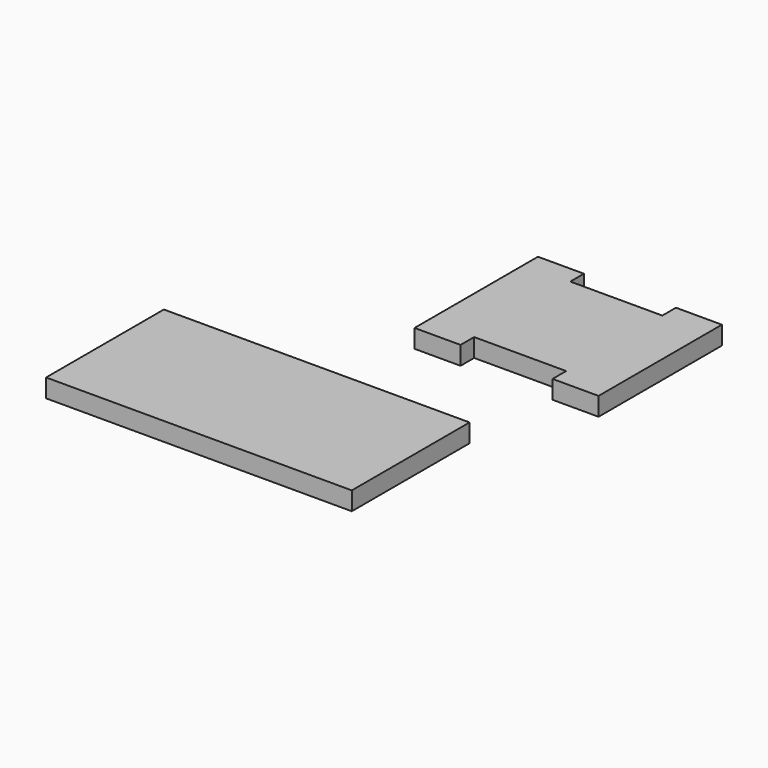
from build123d import *

# Parameters (mm, degrees)
F2_DEPTH = 5.08
F3_DEPTH = 5.08


with BuildPart() as f2:
    # F1 (on Top) → F2 (new body)
    with BuildSketch(Plane.XY):
        Polygon((28.832783, 69.620014), (16.132783, 69.620014), (16.132783, 27.043017), (28.832783, 27.043017), (28.832783, 31.740172), (41.532783, 31.740172), (54.232783, 31.740172), (54.232783, 27.043017), (66.932783, 27.043017), (66.932783, 69.620014), (54.232783, 69.620014), (54.232783, 64.922858), (41.532783, 64.922858), (28.832783, 64.922858), align=None)
    extrude(amount=F2_DEPTH)


with BuildPart() as f3:
    # F0 (on Top) → F3 (new body)
    with BuildSketch(Plane.XY):
        Polygon((52.952456, -40.64), (52.952456, 0), (14.266956, 0), (-31.44131, 0), (-31.453044, -40.64), (14.266956, -40.64), align=None)
    extrude(amount=F3_DEPTH)


solid = Compound([f2.part, f3.part])
